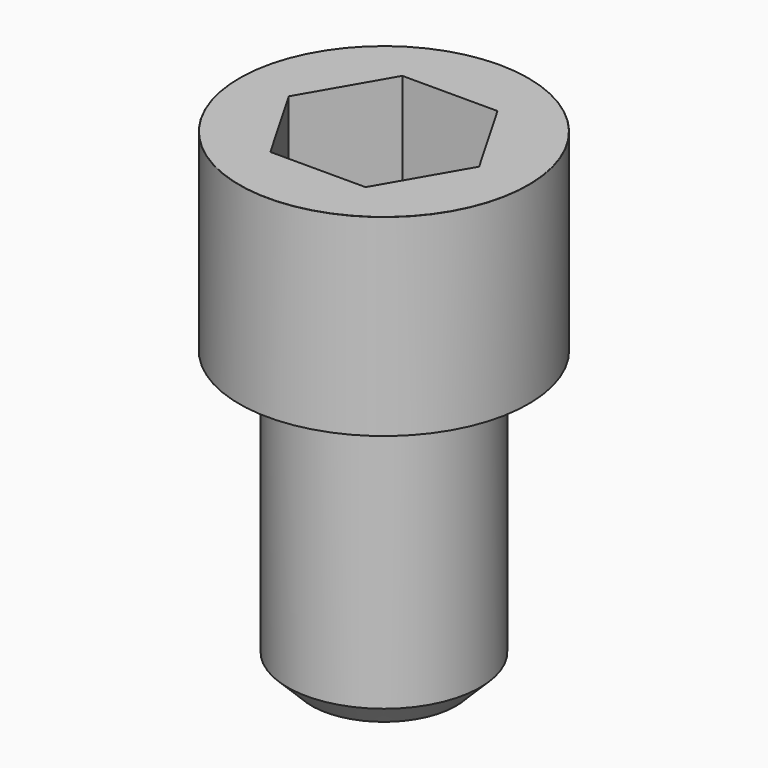
from build123d import *

# Parameters (mm, degrees)
POCKET_DEPTH = 17.1


with BuildPart() as part:
    # Sketch → Revolve (revolve)
    with BuildSketch(Plane.YZ):
        with BuildLine():
            Line((9.999, 0), (15, 0))
            Line((15, 0), (15, 19.97229))
            ThreePointArc((15, 19.97229), (14.991884, 19.991884), (14.97229, 20))
            Line((14.97229, 20), (0, 20))
            Line((0, -30), (0, 20))
            Line((7.5, -30), (0, -30))
            Line((10, -27.5), (7.5, -30))
            Line((10, -0.2), (10, -27.5))
            Line((9.999, 0), (10, -0.2))
        make_face()
    revolve(axis=Axis((0, 0, 0), (0, 0, 1)))

    # Sketch001 → Pocket (cut)
    with BuildSketch(Plane.XY.offset(20)):
        Polygon((9.87269, 0), (4.936345, 8.55), (-4.936345, 8.55), (-9.87269, 0), (-4.936345, -8.55), (4.936345, -8.55), align=None)
    extrude(amount=-POCKET_DEPTH, mode=Mode.SUBTRACT)


solid = part.part
